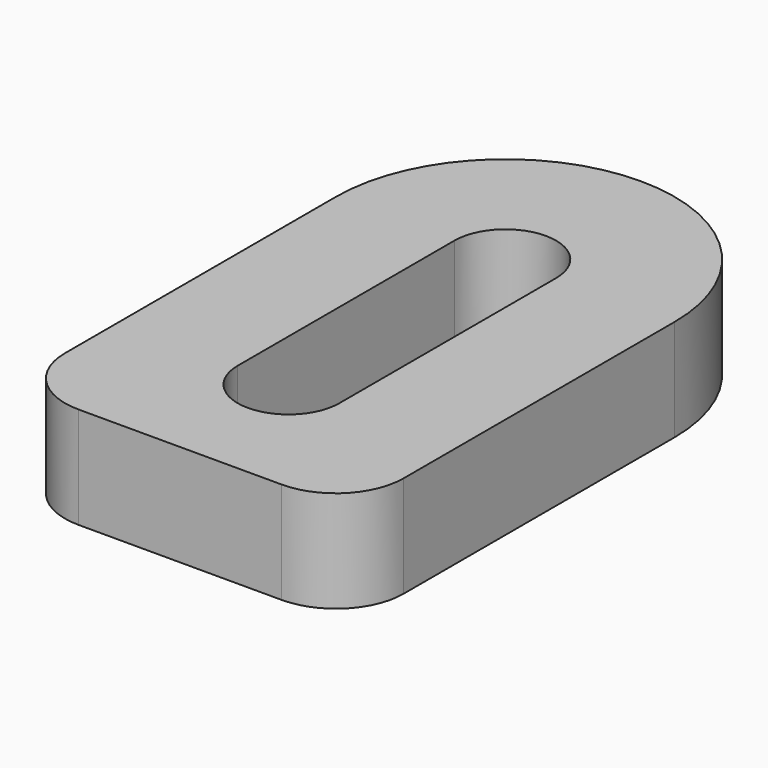
from build123d import *

# Parameters (mm, degrees)
PAD_DEPTH = 3
FILLET_R  = 2


with BuildPart() as part:
    # Sketch → Pad (new body)
    with BuildSketch(Plane.XY):
        with BuildLine():
            ThreePointArc((5, 0), (0, 5), (-5, 0))
            Line((-5, 0), (-5, -12))
            Line((-5, -12), (5, -12))
            Line((5, -12), (5, 0))
        make_face()
        with BuildLine():
            ThreePointArc((1.5, 0), (0, 1.5), (-1.5, 0))
            Line((-1.5, 0), (-1.5, -8))
            ThreePointArc((-1.5, -8), (0, -9.5), (1.5, -8))
            Line((1.5, 0), (1.5, -8))
        make_face(mode=Mode.SUBTRACT)
    extrude(amount=PAD_DEPTH)

    # Fillet
    fillet_edges = [part.edges().sort_by_distance(p)[0] for p in [
        (-5, -12, 1.5),
        (5, -12, 1.5),
    ]]
    fillet(fillet_edges, radius=FILLET_R)


solid = part.part
